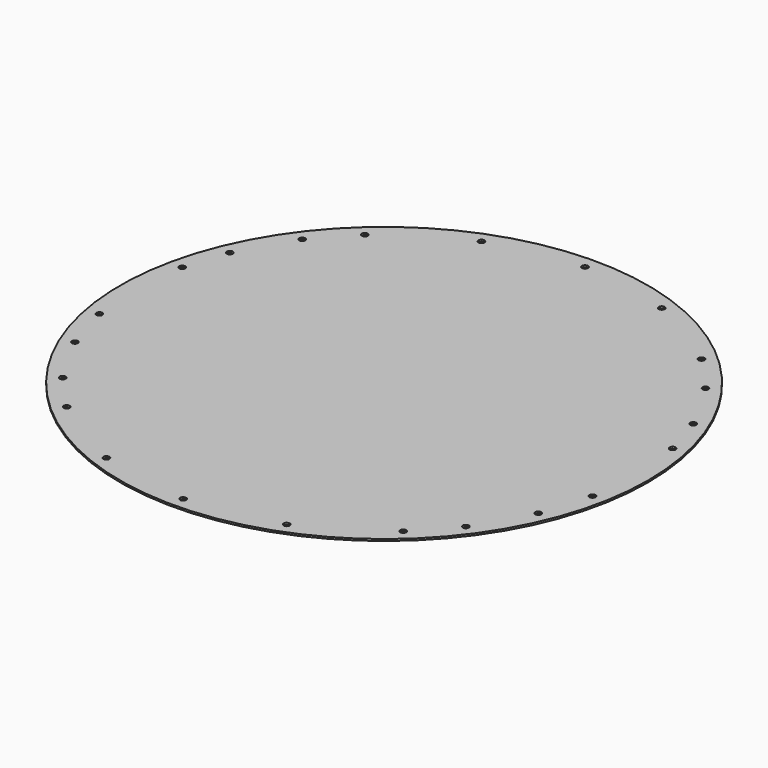
from build123d import *

# Parameters (mm, degrees)
F0_R     = 437.5
F0_R_2   = 395
F1_DEPTH = 3


with BuildPart() as f1:
    # F0 (on Top) → F1 (new body)
    with BuildSketch(Plane.XY):
        Circle(F0_R)
        with BuildLine():
            ThreePointArc((388.684555768, 162.4065226752), (401.5821021582, 127.2139053965), (411.3003615321, 91.0141478207))
            ThreePointArc((411.3003615321, 91.0141478207), (418.7552028306, 45.7781891548), (421.25, 0))
            ThreePointArc((421.25, 0), (419.3290400631, -40.1835620595), (413.5836799535, -80.0006385981))
            ThreePointArc((413.5836799535, -80.0006385981), (403.2446688359, -121.8412883856), (388.684555768, -162.4065226752))
            ThreePointArc((388.684555768, -162.4065226752), (366.1100806318, -208.362595875), (338.1269051786, -251.2404396078))
            ThreePointArc((338.1269051786, -251.2404396078), (311.7358555586, -283.3236997837), (282.3129874079, -312.6514667179))
            ThreePointArc((282.3129874079, -312.6514667179), (220.4827402701, -358.9413931869), (151.2400929899, -393.1640837773))
            ThreePointArc((151.2400929899, -393.1640837773), (76.912912429, -414.1690070511), (-8.07e-08, -421.25))
            ThreePointArc((-8.07e-08, -421.25), (-76.9129129234, -414.1690069593), (-151.2400937778, -393.1640834742))
            ThreePointArc((-151.2400937778, -393.1640834742), (-220.4827406298, -358.941392966), (-282.3129874078, -312.6514667179))
            ThreePointArc((-282.3129874078, -312.6514667179), (-311.7358557541, -283.3236995686), (-338.1269055254, -251.2404391411))
            ThreePointArc((-338.1269055254, -251.2404391411), (-366.1100811558, -208.3625949543), (-388.6845563606, -162.4065212568))
            ThreePointArc((-388.6845563606, -162.4065212568), (-403.2446691422, -121.8412873716), (-413.5836800639, -80.0006380274))
            ThreePointArc((-413.5836800639, -80.0006380274), (-421.2124579884, 5.6238541385), (-411.3003615321, 91.0141478207))
            ThreePointArc((-411.3003615321, 91.0141478207), (-401.5821023261, 127.2139048663), (-388.6845561968, 162.4065216489))
            ThreePointArc((-388.6845561968, 162.4065216489), (-366.1100805701, 208.3625959834), (-338.1269043665, 251.2404407008))
            ThreePointArc((-338.1269043665, 251.2404407008), (-311.735854676, 283.3237007548), (-282.3129864705, 312.6514675643))
            ThreePointArc((-282.3129864705, 312.6514675643), (-220.4827400231, 358.9413933387), (-151.2400936273, 393.164083532))
            ThreePointArc((-151.2400936273, 393.164083532), (-76.9129128044, 414.1690069814), (0, 421.25))
            ThreePointArc((0, 421.25), (76.9129132195, 414.1690069043), (151.2400944153, 393.1640832289))
            ThreePointArc((151.2400944153, 393.1640832289), (220.4827404513, 358.9413930757), (282.3129865899, 312.6514674565))
            ThreePointArc((282.3129865899, 312.6514674565), (311.7358547301, 283.3237006954), (338.1269043665, 251.2404407008))
            ThreePointArc((338.1269043665, 251.2404407008), (366.110080295, 208.3625964667), (388.684555768, 162.4065226752))
        make_face(mode=Mode.SUBTRACT)
        with BuildLine():
            ThreePointArc((403.7656696348, -78.1015142257), (409.3746414577, -39.2296499008), (411.25, 0))
            ThreePointArc((411.25, 0), (408.8144264788, 44.6914667784), (401.5365546368, 88.8535750007))
            ThreePointArc((401.5365546368, 88.8535750007), (392.048995868, 124.193990752), (379.4576228409, 158.5511746029))
            ThreePointArc((379.4576228409, 158.5511746029), (357.4190402349, 203.4163026347), (330.1001537161, 245.276274875))
            ThreePointArc((330.1001537161, 245.276274875), (304.3355974893, 276.5979150334), (275.6111946093, 305.2294741765))
            ThreePointArc((275.6111946093, 305.2294741765), (215.2487284662, 350.4205293553), (147.6498243795, 383.8308115051))
            ThreePointArc((147.6498243795, 383.8308115051), (75.0870870757, 404.3371017536), (1.524e-07, 411.25))
            ThreePointArc((1.524e-07, 411.25), (-75.0870871309, 404.3371017433), (-147.6498247689, 383.8308113554))
            ThreePointArc((-147.6498247689, 383.8308113554), (-215.248728644, 350.4205292462), (-275.6111946093, 305.2294741765))
            ThreePointArc((-275.6111946093, 305.2294741765), (-304.3355973697, 276.5979151651), (-330.1001535039, 245.2762751606))
            ThreePointArc((-330.1001535039, 245.2762751606), (-357.4190401469, 203.4163027893), (-379.4576228409, 158.5511746029))
            ThreePointArc((-379.4576228409, 158.5511746029), (-392.0489958366, 124.193990851), (-401.536554592, 88.8535752034))
            ThreePointArc((-401.536554592, 88.8535752034), (-411.2133491969, 5.4903499238), (-403.7656696348, -78.1015142257))
            ThreePointArc((-403.7656696348, -78.1015142257), (-393.6720950649, -118.9489136864), (-379.4576228409, -158.5511746029))
            ThreePointArc((-379.4576228409, -158.5511746029), (-357.4190402499, -203.4163026083), (-330.1001537524, -245.2762748263))
            ThreePointArc((-330.1001537524, -245.2762748263), (-304.3355978758, -276.5979146081), (-275.6111954173, -305.2294734469))
            ThreePointArc((-275.6111954173, -305.2294734469), (-215.2487291078, -350.4205289613), (-147.6498247689, -383.8308113554))
            ThreePointArc((-147.6498247689, -383.8308113554), (-75.0870872058, -404.3371017294), (0, -411.25))
            ThreePointArc((0, -411.25), (75.0870868925, -404.3371017876), (147.649824174, -383.8308115842))
            ThreePointArc((147.649824174, -383.8308115842), (215.2487283724, -350.420529413), (275.6111946093, -305.2294741765))
            ThreePointArc((275.6111946093, -305.2294741765), (304.3355972831, -276.5979152603), (330.1001533504, -245.2762753673))
            ThreePointArc((330.1001533504, -245.2762753673), (357.4190400832, -203.4163029012), (379.4576228409, -158.5511746029))
            ThreePointArc((379.4576228409, -158.5511746029), (393.6720950649, -118.9489136864), (403.7656696348, -78.1015142257))
        make_face()
        Circle(F0_R_2, mode=Mode.SUBTRACT)
        Circle(F0_R_2)
        with BuildLine():
            ThreePointArc((-409.5947365914, -74.1364570005), (-416.2129035928, 5.5571020167), (-407.4694043603, 85.0455584394))
            ThreePointArc((-407.4694043603, 85.0455584394), (-410.6262711673, 87.2330643405), (-411.3003615322, 91.0141478207))
            ThreePointArc((-411.3003615321, 91.0141478207), (-421.2124579884, 5.6238541385), (-413.5836800639, -80.0006380274))
            ThreePointArc((-413.5836800639, -80.0006380274), (-412.8088809319, -76.2388996823), (-409.5947365914, -74.1364570005))
        make_face()
        with BuildLine():
            ThreePointArc((411.4184579551, 89.9338619952), (410.3078494259, 86.791787205), (407.4694043603, 85.0455584394))
            ThreePointArc((407.4694043603, 85.0455584394), (414.0490321598, 42.7488183172), (416.25, 0))
            ThreePointArc((416.25, 0), (414.5828455244, -37.217290295), (409.5947365914, -74.1364570005))
            ThreePointArc((409.5947365914, -74.1364570005), (412.5217716559, -75.8573569604), (413.6746747499, -79.0510766407))
            ThreePointArc((413.6746747499, -79.0510766407), (413.6518740637, -79.5280326041), (413.5836799535, -80.0006385981))
            ThreePointArc((413.5836799535, -80.0006385981), (419.3290400631, -40.1835620595), (421.25, 0))
            ThreePointArc((421.25, 0), (418.7552028306, 45.7781891548), (411.3003615321, 91.0141478207))
            ThreePointArc((411.3003615321, 91.0141478207), (411.3888461636, 90.4772228858), (411.4184579551, 89.9338619952))
        make_face()
        with BuildLine():
            ThreePointArc((-403.7656696348, -78.1015142257), (-411.2133491969, 5.4903499238), (-401.536554592, 88.8535752034))
            ThreePointArc((-401.536554592, 88.8535752034), (-403.7176607169, 85.7260485158), (-407.4694043603, 85.0455584394))
            ThreePointArc((-407.4694043603, 85.0455584394), (-416.2129035928, 5.5571020167), (-409.5947365914, -74.1364570005))
            ThreePointArc((-409.5947365914, -74.1364570005), (-405.8624982246, -74.9168701642), (-403.7656696348, -78.1015142257))
        make_face()
        with BuildLine():
            ThreePointArc((401.5365546368, 88.8535750007), (408.8144264788, 44.6914667784), (411.25, 0))
            ThreePointArc((411.25, 0), (409.3746414577, -39.2296499008), (403.7656696348, -78.1015142257))
            ThreePointArc((403.7656696348, -78.1015142257), (405.8624982246, -74.9168701642), (409.5947365914, -74.1364570005))
            ThreePointArc((409.5947365914, -74.1364570005), (414.5828455244, -37.217290295), (416.25, 0))
            ThreePointArc((416.25, 0), (414.0490321598, 42.7488183172), (407.4694043603, 85.0455584394))
            ThreePointArc((407.4694043603, 85.0455584394), (403.7176608042, 85.7260484597), (401.5365546368, 88.8535750007))
        make_face()
        with BuildLine():
            ThreePointArc((-275.2310357364, 312.2690177835), (-217.8657345634, 354.6809611512), (-154.1007294358, 386.6743173361))
            ThreePointArc((-154.1007294358, 386.6743173361), (-154.0201978857, 390.5141752085), (-151.2400936273, 393.164083532))
            ThreePointArc((-151.2400936273, 393.164083532), (-220.4827400231, 358.9413933387), (-282.3129864705, 312.6514675643))
            ThreePointArc((-282.3129864705, 312.6514675643), (-278.6924665686, 313.9331954786), (-275.2310357364, 312.2690177835))
        make_face()
        with BuildLine():
            ThreePointArc((-144.767625762, 390.264521871), (-76, 409.2530543563), (-4.9999098189, 416.21996997))
            ThreePointArc((-4.9999098189, 416.21996997), (-3.5461352308, 419.7749006972), (0, 421.25))
            ThreePointArc((0, 421.25), (-76.9129128044, 414.1690069814), (-151.2400936273, 393.164083532))
            ThreePointArc((-151.2400936273, 393.164083532), (-147.4007888904, 393.0604911458), (-144.767625762, 390.264521871))
        make_face()
        with BuildLine():
            ThreePointArc((4.9999098189, 416.21996997), (76, 409.2530543563), (144.767625762, 390.264521871))
            ThreePointArc((144.767625762, 390.264521871), (147.4007892756, 393.0604913183), (151.2400944153, 393.1640832289))
            ThreePointArc((151.2400944153, 393.1640832289), (76.9129132195, 414.1690069043), (0, 421.25))
            ThreePointArc((0, 421.25), (3.5355339059, 419.7855339059), (5, 416.25))
            ThreePointArc((5, 416.25), (4.9999774547, 416.2349849173), (4.9999098189, 416.21996997))
        make_face()
        with BuildLine():
            ThreePointArc((154.1007294358, 386.6743173361), (217.8657345634, 354.6809611512), (275.2310357364, 312.2690177835))
            ThreePointArc((275.2310357364, 312.2690177835), (278.6924666489, 313.9331954829), (282.3129865899, 312.6514674565))
            ThreePointArc((282.3129865899, 312.6514674565), (220.4827404513, 358.9413930757), (151.2400944153, 393.1640832289))
            ThreePointArc((151.2400944153, 393.1640832289), (153.5665896991, 391.328023702), (154.4449591884, 388.4974474474))
            ThreePointArc((154.4449591884, 388.4974474474), (154.3581481343, 387.5697759639), (154.1007294358, 386.6743173361))
        make_face()
        with BuildLine():
            ThreePointArc((-151.2400937778, -393.1640834742), (-154.0201979183, -390.5141751347), (-154.1007294358, -386.6743173361))
            ThreePointArc((-154.1007294358, -386.6743173361), (-217.8657345634, -354.6809611512), (-275.2310357364, -312.2690177835))
            ThreePointArc((-275.2310357364, -312.2690177835), (-278.6924671991, -313.9331955126), (-282.3129874078, -312.6514667179))
            ThreePointArc((-282.3129874078, -312.6514667179), (-220.4827406298, -358.941392966), (-151.2400937778, -393.1640834742))
        make_face()
        with BuildLine():
            ThreePointArc((-8.07e-08, -421.25), (-3.5461352592, -419.7749006686), (-4.9999098189, -416.21996997))
            ThreePointArc((-4.9999098189, -416.21996997), (-76, -409.2530543563), (-144.767625762, -390.264521871))
            ThreePointArc((-144.767625762, -390.264521871), (-147.4007889639, -393.0604911787), (-151.2400937778, -393.1640834742))
            ThreePointArc((-151.2400937778, -393.1640834742), (-76.9129129234, -414.1690069593), (-8.07e-08, -421.25))
        make_face()
        with BuildLine():
            ThreePointArc((151.2400929899, -393.1640837773), (147.4007885787, -393.0604910061), (144.767625762, -390.264521871))
            ThreePointArc((144.767625762, -390.264521871), (76, -409.2530543563), (4.9999098189, -416.21996997))
            ThreePointArc((4.9999098189, -416.21996997), (4.9999774547, -416.2349849173), (5, -416.25))
            ThreePointArc((5, -416.25), (3.5355338774, -419.7855339345), (-8.07e-08, -421.25))
            ThreePointArc((-8.07e-08, -421.25), (76.912912429, -414.1690070511), (151.2400929899, -393.1640837773))
        make_face()
        with BuildLine():
            ThreePointArc((282.3129874079, -312.6514667179), (278.6924671991, -313.9331955126), (275.2310357364, -312.2690177835))
            ThreePointArc((275.2310357364, -312.2690177835), (217.8657345634, -354.6809611512), (154.1007294358, -386.6743173361))
            ThreePointArc((154.1007294358, -386.6743173361), (154.3581481343, -387.5697759639), (154.4449591884, -388.4974474474))
            ThreePointArc((154.4449591884, -388.4974474474), (153.5665892669, -391.3280243314), (151.2400929899, -393.1640837773))
            ThreePointArc((151.2400929899, -393.1640837773), (220.4827402701, -358.9413931869), (282.3129874079, -312.6514667179))
        make_face()
        with BuildLine():
            ThreePointArc((-275.6111946093, 305.2294741765), (-215.248728644, 350.4205292462), (-147.6498247689, 383.8308113554))
            ThreePointArc((-147.6498247689, 383.8308113554), (-151.461686959, 383.9222087543), (-154.1007294358, 386.6743173361))
            ThreePointArc((-154.1007294358, 386.6743173361), (-217.8657345634, 354.6809611512), (-275.2310357364, 312.2690177835))
            ThreePointArc((-275.2310357364, 312.2690177835), (-274.2900851659, 310.7215830672), (-273.9620909481, 308.9404705018))
            ThreePointArc((-273.9620909481, 308.9404705018), (-274.3929290067, 306.910012634), (-275.6111946093, 305.2294741765))
        make_face()
        with BuildLine():
            ThreePointArc((-147.6498247689, 383.8308113554), (-75.0870871309, 404.3371017433), (1.524e-07, 411.25))
            ThreePointArc((1.524e-07, 411.25), (-3.5249006431, 412.7038647155), (-4.9999098189, 416.21996997))
            ThreePointArc((-4.9999098189, 416.21996997), (-76, 409.2530543563), (-144.767625762, 390.264521871))
            ThreePointArc((-144.767625762, 390.264521871), (-144.5262872573, 389.395593557), (-144.4449591884, 388.4974474474))
            ThreePointArc((-144.4449591884, 388.4974474474), (-145.3233289225, 385.6668708363), (-147.6498247689, 383.8308113554))
        make_face()
        with BuildLine():
            ThreePointArc((1.524e-07, 411.25), (75.0870870757, 404.3371017536), (147.6498243795, 383.8308115051))
            ThreePointArc((147.6498243795, 383.8308115051), (144.8819154091, 386.4532773303), (144.767625762, 390.264521871))
            ThreePointArc((144.767625762, 390.264521871), (76, 409.2530543563), (4.9999098189, 416.21996997))
            ThreePointArc((4.9999098189, 416.21996997), (3.5249007512, 412.7038648229), (1.524e-07, 411.25))
        make_face()
        with BuildLine():
            ThreePointArc((147.6498243795, 383.8308115051), (215.2487284662, 350.4205293553), (275.6111946093, 305.2294741765))
            ThreePointArc((275.6111946093, 305.2294741765), (273.9693659417, 308.6708466714), (275.2310357364, 312.2690177835))
            ThreePointArc((275.2310357364, 312.2690177835), (217.8657345634, 354.6809611512), (154.1007294358, 386.6743173361))
            ThreePointArc((154.1007294358, 386.6743173361), (151.4616867681, 383.9222086702), (147.6498243795, 383.8308115051))
        make_face()
        with BuildLine():
            ThreePointArc((-154.1007294358, -386.6743173361), (-151.461686959, -383.9222087543), (-147.6498247689, -383.8308113554))
            ThreePointArc((-147.6498247689, -383.8308113554), (-215.2487291078, -350.4205289613), (-275.6111954173, -305.2294734469))
            ThreePointArc((-275.6111954173, -305.2294734469), (-274.3929292277, -306.9100121365), (-273.9620909481, -308.9404705018))
            ThreePointArc((-273.9620909481, -308.9404705018), (-274.2900851659, -310.7215830672), (-275.2310357364, -312.2690177835))
            ThreePointArc((-275.2310357364, -312.2690177835), (-217.8657345634, -354.6809611512), (-154.1007294358, -386.6743173361))
        make_face()
        with BuildLine():
            ThreePointArc((-4.9999098189, -416.21996997), (-3.5249006972, -412.7038647692), (0, -411.25))
            ThreePointArc((0, -411.25), (-75.0870872058, -404.3371017294), (-147.6498247689, -383.8308113554))
            ThreePointArc((-147.6498247689, -383.8308113554), (-145.3233289225, -385.6668708363), (-144.4449591884, -388.4974474474))
            ThreePointArc((-144.4449591884, -388.4974474474), (-144.5262872573, -389.395593557), (-144.767625762, -390.264521871))
            ThreePointArc((-144.767625762, -390.264521871), (-76, -409.2530543563), (-4.9999098189, -416.21996997))
        make_face()
        with BuildLine():
            ThreePointArc((144.767625762, -390.264521871), (144.881915364, -386.4532774308), (147.649824174, -383.8308115842))
            ThreePointArc((147.649824174, -383.8308115842), (75.0870868925, -404.3371017876), (0, -411.25))
            ThreePointArc((0, -411.25), (3.5249006972, -412.7038647692), (4.9999098189, -416.21996997))
            ThreePointArc((4.9999098189, -416.21996997), (76, -409.2530543563), (144.767625762, -390.264521871))
        make_face()
        with BuildLine():
            ThreePointArc((275.2310357364, -312.2690177835), (273.9693659417, -308.6708466714), (275.6111946093, -305.2294741765))
            ThreePointArc((275.6111946093, -305.2294741765), (215.2487283724, -350.420529413), (147.649824174, -383.8308115842))
            ThreePointArc((147.649824174, -383.8308115842), (151.4616866674, -383.9222086258), (154.1007294358, -386.6743173361))
            ThreePointArc((154.1007294358, -386.6743173361), (217.8657345634, -354.6809611512), (275.2310357364, -312.2690177835))
        make_face()
        with BuildLine():
            ThreePointArc((-382.1157417776, 165.0806541839), (-361.7645604193, 205.8894492796), (-337.0714535348, 244.2271436838))
            ThreePointArc((-337.0714535348, 244.2271436838), (-339.0578530426, 247.5142722176), (-338.1269043665, 251.2404407008))
            ThreePointArc((-338.1269043665, 251.2404407008), (-366.1100805701, 208.3625959834), (-388.6845561968, 162.4065216489))
            ThreePointArc((-388.6845561968, 162.4065216489), (-385.9563335645, 165.1098153653), (-382.1157417776, 165.0806541839))
        make_face()
        with BuildLine():
            ThreePointArc((337.0714535348, 244.2271436838), (361.7645604193, 205.8894492796), (382.1157417776, 165.0806541839))
            ThreePointArc((382.1157417776, 165.0806541839), (385.9563330494, 165.109815575), (388.684555768, 162.4065226752))
            ThreePointArc((388.684555768, 162.4065226752), (366.110080295, 208.3625964667), (338.1269043665, 251.2404407008))
            ThreePointArc((338.1269043665, 251.2404407008), (338.8604691267, 249.8288867521), (339.1135293075, 248.2583574297))
            ThreePointArc((339.1135293075, 248.2583574297), (338.5738892221, 245.9988908042), (337.0714535348, 244.2271436838))
        make_face()
        with BuildLine():
            ThreePointArc((388.684555768, -162.4065226752), (385.9563330494, -165.109815575), (382.1157417776, -165.0806541839))
            ThreePointArc((382.1157417776, -165.0806541839), (361.7645604193, -205.8894492796), (337.0714535348, -244.2271436838))
            ThreePointArc((337.0714535348, -244.2271436838), (338.5738892221, -245.9988908042), (339.1135293075, -248.2583574297))
            ThreePointArc((339.1135293075, -248.2583574297), (338.8604693406, -249.8288861057), (338.1269051786, -251.2404396078))
            ThreePointArc((338.1269051786, -251.2404396078), (366.1100806318, -208.362595875), (388.684555768, -162.4065226752))
        make_face()
        with BuildLine():
            ThreePointArc((-338.1269055254, -251.2404391411), (-339.057852898, -247.5142712569), (-337.0714535348, -244.2271436838))
            ThreePointArc((-337.0714535348, -244.2271436838), (-361.7645604193, -205.8894492796), (-382.1157417776, -165.0806541839))
            ThreePointArc((-382.1157417776, -165.0806541839), (-385.9563337613, -165.1098152852), (-388.6845563606, -162.4065212568))
            ThreePointArc((-388.6845563606, -162.4065212568), (-366.1100811558, -208.3625949543), (-338.1269055254, -251.2404391411))
        make_face()
        with BuildLine():
            ThreePointArc((-379.4576228409, 158.5511746029), (-357.4190401469, 203.4163027893), (-330.1001535039, 245.2762751606))
            ThreePointArc((-330.1001535039, 245.2762751606), (-333.3694434782, 243.3140337875), (-337.0714535348, 244.2271436838))
            ThreePointArc((-337.0714535348, 244.2271436838), (-361.7645604193, 205.8894492796), (-382.1157417776, 165.0806541839))
            ThreePointArc((-382.1157417776, 165.0806541839), (-379.9011530439, 163.2377669247), (-379.0710893729, 160.4788484751))
            ThreePointArc((-379.0710893729, 160.4788484751), (-379.1686750361, 159.4958257542), (-379.4576228409, 158.5511746029))
        make_face()
        with BuildLine():
            ThreePointArc((330.1001537161, 245.276274875), (357.4190402349, 203.4163026347), (379.4576228409, 158.5511746029))
            ThreePointArc((379.4576228409, 158.5511746029), (379.44012234, 162.3640923162), (382.1157417776, 165.0806541839))
            ThreePointArc((382.1157417776, 165.0806541839), (361.7645604193, 205.8894492796), (337.0714535348, 244.2271436838))
            ThreePointArc((337.0714535348, 244.2271436838), (333.3694436541, 243.3140337611), (330.1001537161, 245.276274875))
        make_face()
        with BuildLine():
            ThreePointArc((382.1157417776, -165.0806541839), (379.44012234, -162.3640923162), (379.4576228409, -158.5511746029))
            ThreePointArc((379.4576228409, -158.5511746029), (357.4190400832, -203.4163029012), (330.1001533504, -245.2762753673))
            ThreePointArc((330.1001533504, -245.2762753673), (333.3694433509, -243.3140338067), (337.0714535348, -244.2271436838))
            ThreePointArc((337.0714535348, -244.2271436838), (361.7645604193, -205.8894492796), (382.1157417776, -165.0806541839))
        make_face()
        with BuildLine():
            ThreePointArc((-337.0714535348, -244.2271436838), (-333.3694436841, -243.3140337565), (-330.1001537524, -245.2762748263))
            ThreePointArc((-330.1001537524, -245.2762748263), (-357.4190402499, -203.4163026083), (-379.4576228409, -158.5511746029))
            ThreePointArc((-379.4576228409, -158.5511746029), (-379.1686750361, -159.4958257542), (-379.0710893729, -160.4788484751))
            ThreePointArc((-379.0710893729, -160.4788484751), (-379.9011530439, -163.2377669247), (-382.1157417776, -165.0806541839))
            ThreePointArc((-382.1157417776, -165.0806541839), (-361.7645604193, -205.8894492796), (-337.0714535348, -244.2271436838))
        make_face()
        with BuildLine():
            ThreePointArc((413.5836799535, -80.0006385981), (411.4619706788, -83.2020983709), (407.6956458801, -83.9542901249))
            ThreePointArc((407.6956458801, -83.9542901249), (398.4583819424, -120.3951010625), (385.9710199528, -155.8538875248))
            ThreePointArc((385.9710199528, -155.8538875248), (388.2243804113, -157.6949351233), (389.0710893729, -160.4788484751))
            ThreePointArc((389.0710893729, -160.4788484751), (388.9735036748, -161.4618713703), (388.684555768, -162.4065226752))
            ThreePointArc((388.684555768, -162.4065226752), (403.2446688359, -121.8412883856), (413.5836799535, -80.0006385981))
        make_face()
        with BuildLine():
            ThreePointArc((-388.6845563606, -162.4065212568), (-388.6906498688, -158.5658244749), (-385.9710199528, -155.8538875248))
            ThreePointArc((-385.9710199528, -155.8538875248), (-398.4583819424, -120.3951010625), (-407.6956458801, -83.9542901249))
            ThreePointArc((-407.6956458801, -83.9542901249), (-411.4619709201, -83.2020982089), (-413.5836800639, -80.0006380274))
            ThreePointArc((-413.5836800639, -80.0006380274), (-403.2446691422, -121.8412873716), (-388.6845563606, -162.4065212568))
        make_face()
        with BuildLine():
            ThreePointArc((407.6956458801, -83.9542901249), (404.5236528898, -81.8383723761), (403.7656696348, -78.1015142257))
            ThreePointArc((403.7656696348, -78.1015142257), (393.6720950649, -118.9489136864), (379.4576228409, -158.5511746029))
            ThreePointArc((379.4576228409, -158.5511746029), (382.1580659187, -155.8592877532), (385.9710199528, -155.8538875248))
            ThreePointArc((385.9710199528, -155.8538875248), (398.4583819424, -120.3951010625), (407.6956458801, -83.9542901249))
        make_face()
        with BuildLine():
            ThreePointArc((-385.9710199528, -155.8538875248), (-382.1580659187, -155.8592877532), (-379.4576228409, -158.5511746029))
            ThreePointArc((-379.4576228409, -158.5511746029), (-393.6720950649, -118.9489136864), (-403.7656696348, -78.1015142257))
            ThreePointArc((-403.7656696348, -78.1015142257), (-403.6974754584, -78.5741204453), (-403.6746747499, -79.0510766407))
            ThreePointArc((-403.6746747499, -79.0510766407), (-404.8084657315, -82.2216330312), (-407.6956458801, -83.9542901249))
            ThreePointArc((-407.6956458801, -83.9542901249), (-398.4583819424, -120.3951010625), (-385.9710199528, -155.8538875248))
        make_face()
        with BuildLine():
            ThreePointArc((-331.1073963627, 252.2537503664), (-308.0357264177, 279.9608075255), (-282.652895157, 305.5673466838))
            ThreePointArc((-282.652895157, 305.5673466838), (-283.9563452407, 309.1801036821), (-282.3129864705, 312.6514675643))
            ThreePointArc((-282.3129864705, 312.6514675643), (-311.735854676, 283.3237007548), (-338.1269043665, 251.2404407008))
            ThreePointArc((-338.1269043665, 251.2404407008), (-334.8279054611, 253.2070609681), (-331.1073963627, 252.2537503664))
        make_face()
        with BuildLine():
            ThreePointArc((282.652895157, 305.5673466838), (308.0357264177, 279.9608075255), (331.1073963627, 252.2537503664))
            ThreePointArc((331.1073963627, 252.2537503664), (334.827905461, 253.2070609681), (338.1269043665, 251.2404407008))
            ThreePointArc((338.1269043665, 251.2404407008), (311.7358547301, 283.3237006954), (282.3129865899, 312.6514674565))
            ThreePointArc((282.3129865899, 312.6514674565), (283.5312526988, 310.9709287987), (283.9620909481, 308.9404705018))
            ThreePointArc((283.9620909481, 308.9404705018), (283.6233150923, 307.1313299661), (282.652895157, 305.5673466838))
        make_face()
        with BuildLine():
            ThreePointArc((338.1269051786, -251.2404396078), (334.8279061349, -253.2070608709), (331.1073963627, -252.2537503664))
            ThreePointArc((331.1073963627, -252.2537503664), (308.0357264177, -279.9608075255), (282.652895157, -305.5673466838))
            ThreePointArc((282.652895157, -305.5673466838), (283.6233150923, -307.1313299661), (283.9620909481, -308.9404705018))
            ThreePointArc((283.9620909481, -308.9404705018), (283.5312529226, -310.9709282951), (282.3129874079, -312.6514667179))
            ThreePointArc((282.3129874079, -312.6514667179), (311.7358555586, -283.3236997837), (338.1269051786, -251.2404396078))
        make_face()
        with BuildLine():
            ThreePointArc((-282.3129874078, -312.6514667179), (-283.9563452709, -309.1801030514), (-282.652895157, -305.5673466838))
            ThreePointArc((-282.652895157, -305.5673466838), (-308.0357264177, -279.9608075255), (-331.1073963627, -252.2537503664))
            ThreePointArc((-331.1073963627, -252.2537503664), (-334.8279064226, -253.2070608293), (-338.1269055254, -251.2404391411))
            ThreePointArc((-338.1269055254, -251.2404391411), (-311.7358557541, -283.3236995686), (-282.3129874078, -312.6514667179))
        make_face()
        with BuildLine():
            ThreePointArc((-330.1001535039, 245.2762751606), (-304.3355973697, 276.5979151651), (-275.6111946093, 305.2294741765))
            ThreePointArc((-275.6111946093, 305.2294741765), (-279.2017235791, 303.9462161828), (-282.652895157, 305.5673466838))
            ThreePointArc((-282.652895157, 305.5673466838), (-308.0357264177, 279.9608075255), (-331.1073963627, 252.2537503664))
            ThreePointArc((-331.1073963627, 252.2537503664), (-329.6396794707, 250.4909943545), (-329.1135293075, 248.2583574297))
            ThreePointArc((-329.1135293075, 248.2583574297), (-329.3665892922, 246.6878286999), (-330.1001535039, 245.2762751606))
        make_face()
        with BuildLine():
            ThreePointArc((275.6111946093, 305.2294741765), (304.3355974893, 276.5979150334), (330.1001537161, 245.276274875))
            ThreePointArc((330.1001537161, 245.276274875), (329.1648258328, 248.972734025), (331.1073963627, 252.2537503664))
            ThreePointArc((331.1073963627, 252.2537503664), (308.0357264177, 279.9608075255), (282.652895157, 305.5673466838))
            ThreePointArc((282.652895157, 305.5673466838), (279.2017235791, 303.9462161828), (275.6111946093, 305.2294741765))
        make_face()
        with BuildLine():
            ThreePointArc((331.1073963627, -252.2537503664), (329.1648258766, -248.9727343284), (330.1001533504, -245.2762753673))
            ThreePointArc((330.1001533504, -245.2762753673), (304.3355972831, -276.5979152603), (275.6111946093, -305.2294741765))
            ThreePointArc((275.6111946093, -305.2294741765), (279.2017235791, -303.9462161828), (282.652895157, -305.5673466838))
            ThreePointArc((282.652895157, -305.5673466838), (308.0357264177, -279.9608075255), (331.1073963627, -252.2537503664))
        make_face()
        with BuildLine():
            ThreePointArc((-282.652895157, -305.5673466838), (-279.2017241228, -303.9462162089), (-275.6111954173, -305.2294734469))
            ThreePointArc((-275.6111954173, -305.2294734469), (-304.3355978758, -276.5979146081), (-330.1001537524, -245.2762748263))
            ThreePointArc((-330.1001537524, -245.2762748263), (-329.3665893576, -246.6878285022), (-329.1135293075, -248.2583574297))
            ThreePointArc((-329.1135293075, -248.2583574297), (-329.6396794707, -250.4909943545), (-331.1073963627, -252.2537503664))
            ThreePointArc((-331.1073963627, -252.2537503664), (-308.0357264177, -279.9608075255), (-282.652895157, -305.5673466838))
        make_face()
        with BuildLine():
            ThreePointArc((-405.3088700677, 94.809189135), (-396.8155489495, 125.7039482749), (-385.9710199528, 155.8538875248))
            ThreePointArc((-385.9710199528, 155.8538875248), (-388.69064995, 158.5658246712), (-388.6845561968, 162.4065216489))
            ThreePointArc((-388.6845561968, 162.4065216489), (-401.5821023261, 127.2139048663), (-411.3003615321, 91.0141478207))
            ThreePointArc((-411.3003615322, 91.0141478207), (-409.0939347463, 94.1578203212), (-405.3088700677, 94.809189135))
        make_face()
        with BuildLine():
            ThreePointArc((385.9710199528, 155.8538875248), (396.8155489495, 125.7039482749), (405.3088700677, 94.809189135))
            ThreePointArc((405.3088700677, 94.809189135), (409.0939347463, 94.1578203212), (411.3003615321, 91.0141478207))
            ThreePointArc((411.3003615321, 91.0141478207), (401.5821021582, 127.2139053965), (388.684555768, 162.4065226752))
            ThreePointArc((388.684555768, 162.4065226752), (388.9735036748, 161.4618713703), (389.0710893729, 160.4788484751))
            ThreePointArc((389.0710893729, 160.4788484751), (388.2243804113, 157.6949351233), (385.9710199528, 155.8538875248))
        make_face()
        with BuildLine():
            ThreePointArc((-401.536554592, 88.8535752034), (-392.0489958366, 124.193990851), (-379.4576228409, 158.5511746029))
            ThreePointArc((-379.4576228409, 158.5511746029), (-382.1580659187, 155.8592877532), (-385.9710199528, 155.8538875248))
            ThreePointArc((-385.9710199528, 155.8538875248), (-396.8155489495, 125.7039482749), (-405.3088700677, 94.809189135))
            ThreePointArc((-405.3088700677, 94.809189135), (-402.5102653142, 93.0525204057), (-401.4184579551, 89.9338619952))
            ThreePointArc((-401.4184579551, 89.9338619952), (-401.4480698005, 89.3905006126), (-401.536554592, 88.8535752034))
        make_face()
        with BuildLine():
            ThreePointArc((379.4576228409, 158.5511746029), (392.048995868, 124.193990752), (401.5365546368, 88.8535750007))
            ThreePointArc((401.5365546368, 88.8535750007), (402.1944993087, 92.6093382806), (405.3088700677, 94.809189135))
            ThreePointArc((405.3088700677, 94.809189135), (396.8155489495, 125.7039482749), (385.9710199528, 155.8538875248))
            ThreePointArc((385.9710199528, 155.8538875248), (382.1580659187, 155.8592877532), (379.4576228409, 158.5511746029))
        make_face()
    extrude(amount=F1_DEPTH)


solid = f1.part
